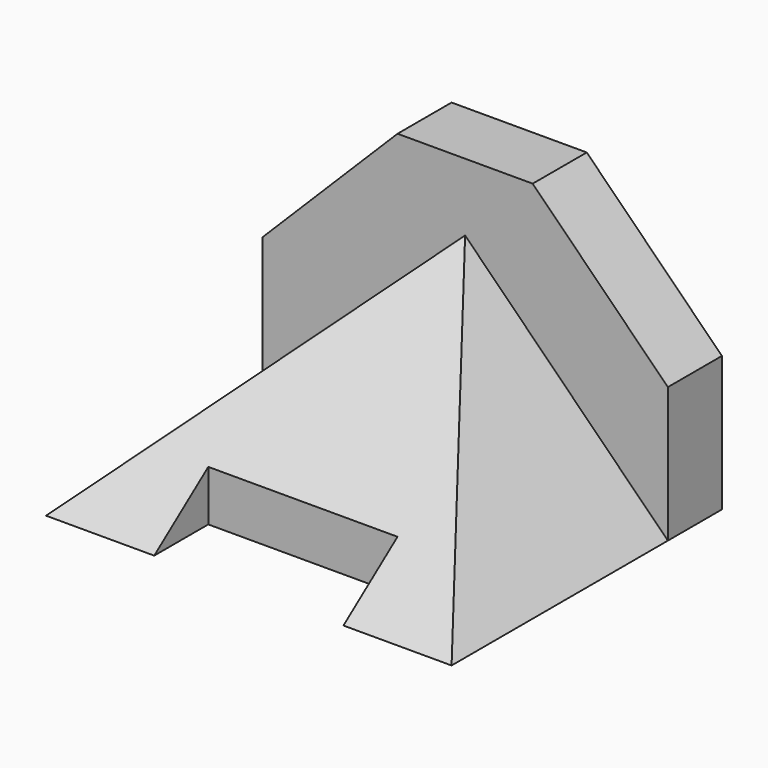
from build123d import *

# Parameters (mm, degrees)
F0_W     = 35.56
F0_H     = 12.7
F1_DEPTH = 38.1
F2_DEPTH = 50.8
F4_DEPTH = 76.201
F5_DEPTH = 12.7
F6_DEPTH = 12.7


with BuildPart() as f1:
    # F0 (on Front) → F1 (new body)
    with BuildSketch(Plane.XZ):
        with Locations((38.1, 6.35)):
            Rectangle(F0_W, F0_H)
    extrude(amount=F1_DEPTH)

    # F0 (on Front) → F2 (join)
    with BuildSketch(Plane.XZ):
        Polygon((38.1, 38.1), (0, 0), (20.32, 0), (20.32, 12.7), (55.88, 12.7), (55.88, 0), (76.2, 0), align=None)
    extrude(amount=F2_DEPTH)

    # F3 (on Right) → F4 (cut, through all)
    with BuildSketch(Plane.YZ):
        Polygon((-50.8, 0), (0, 38.1), (-50.8, 38.1), align=None)
    extrude(amount=F4_DEPTH, mode=Mode.SUBTRACT)

    # F0 (on Front) → F5 (join)
    with BuildSketch(Plane.XZ):
        Polygon((0, 25.4), (0, 0), (38.1, 38.1), (76.2, 0), (76.2, 25.4), (50.8, 50.8), (25.4, 50.8), align=None)
    extrude(amount=-F5_DEPTH)

    # F0 (on Front) → F6 (join)
    with BuildSketch(Plane.XZ):
        with Locations((38.1, 6.35)):
            Rectangle(F0_W, F0_H)
        Polygon((0, 25.4), (0, 0), (38.1, 38.1), (76.2, 0), (76.2, 25.4), (50.8, 50.8), (25.4, 50.8), align=None)
        Polygon((38.1, 38.1), (0, 0), (20.32, 0), (20.32, 12.7), (55.88, 12.7), (55.88, 0), (76.2, 0), align=None)
    extrude(amount=-F6_DEPTH)


solid = f1.part
